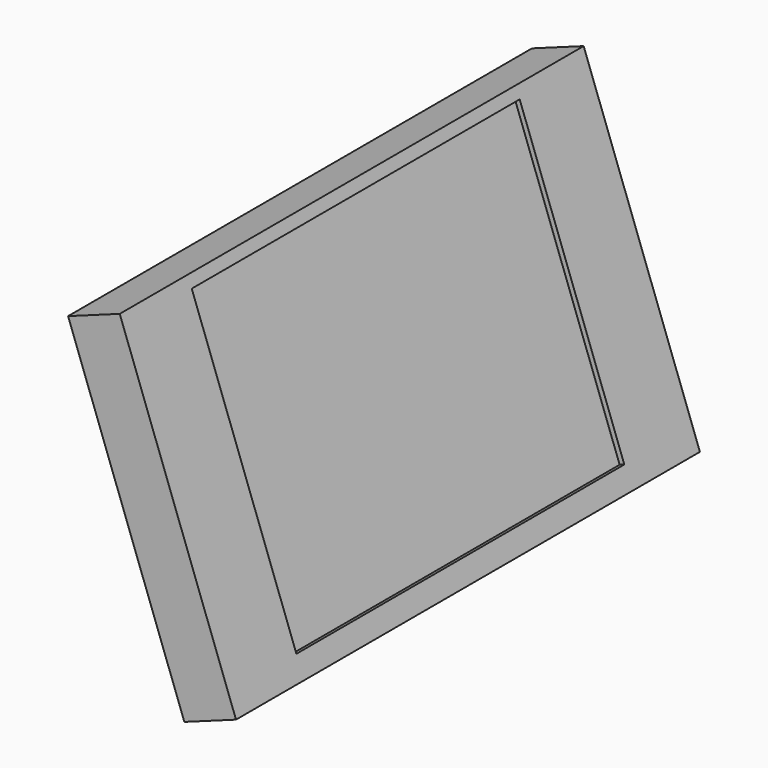
from build123d import *

# Parameters (mm, degrees)
PAD002_DEPTH      = 410
PAD002_DEPTH_BACK = 170
POCKET_DEPTH      = 5
PAD_DEPTH         = 20
SKETCH004_R       = 8
POCKET001_DEPTH   = 10


with BuildPart() as part:
    # Sketch002 → Pad002 (new body, two sides)
    with BuildSketch(Plane(origin=(0, 0, 0), x_dir=(-1, 0, 0), z_dir=(0, 1, 0))) as pad002_sk:
        Polygon((40, 50), (156.2868487308, 369.4954910672), (207.969942874, 350.6843831843), (91.6830941432, 31.1888921171), align=None)
    extrude(amount=PAD002_DEPTH)
    extrude(pad002_sk.sketch, amount=-PAD002_DEPTH_BACK)

    # Sketch (on Face1 of Pad002) → Pocket (cut)
    with BuildSketch(Plane(origin=(-19.2511986202, 0, -7.0068632717), x_dir=(-0.3420201433, 0, 0.9396926208), z_dir=(0.9396926208, 0, 0.3420201433))):
        Polygon((82.9319106246, 85), (388.9319106246, 85), (388.9319106246, -325), (82.9319106246, -325), (82.9319106246, -120), align=None)
    extrude(amount=-POCKET_DEPTH, mode=Mode.SUBTRACT)

    # Sketch003 (on Face11 of Pocket) → Pad (join)
    with BuildSketch(Plane(origin=(-70.9342927634, 0, -25.8179711546), x_dir=(0.3420201433, 0, -0.9396926208), z_dir=(-0.9396926208, 0, -0.3420201433))):
        Polygon((-366.6654367723, -325), (-94.6654367723, -325), (-94.6654367723, -120), (-94.6654367723, 85), (-366.6654367723, 85), align=None)
    extrude(amount=PAD_DEPTH)

    # Sketch004 (on Face18 of Pad) → Pocket001 (cut)
    with BuildSketch(Plane(origin=(-89.7281451791, 0, -32.6583740211), x_dir=(0.3420201433, 0, -0.9396926208), z_dir=(-0.9396926208, 0, -0.3420201433))):
        with Locations((-235.6654367723, -82.5)):
            Circle(SKETCH004_R)
        with Locations((-160.6654367723, -82.5)):
            Circle(SKETCH004_R)
        with Locations((-160.6654367723, -157.5)):
            Circle(SKETCH004_R)
        with Locations((-235.6654367723, -157.5)):
            Circle(SKETCH004_R)
    extrude(amount=-POCKET001_DEPTH, mode=Mode.SUBTRACT)


solid = part.part
